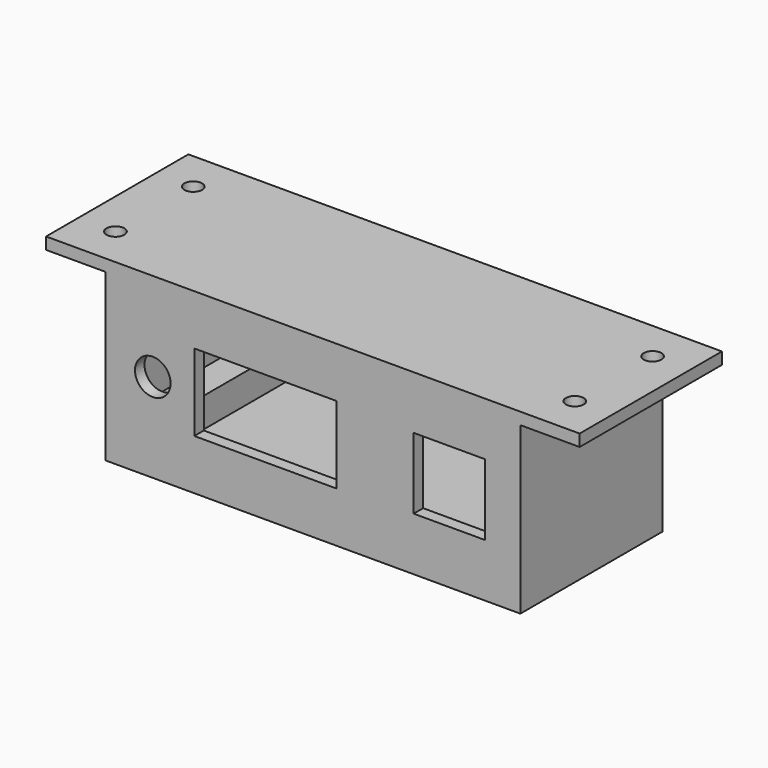
from build123d import *

# Parameters (mm, degrees)
F0_W      = 70
F0_H      = 30
F1_DEPTH  = 30
F2_T      = -2
F3_R      = 3
F3_W      = 12
F3_H      = 12
F3_W_2    = 24
F3_H_2    = 13
F4_DEPTH  = 30.001
F5_W      = 5
F5_H      = 5
F6_DEPTH  = 28
F7_R      = 1.5
F8_DEPTH  = 10
F9_W      = 10
F9_H      = 30
F10_DEPTH = 2
F12_R     = 1.5
F13_DEPTH = 30.001


with BuildPart() as f1:
    # F0 (on Front) → F1 (new body)
    with BuildSketch(Plane.XZ):
        Rectangle(F0_W, F0_H)
    extrude(amount=F1_DEPTH)

    # F2
    f2_openings = [f1.faces().sort_by_distance(p)[0] for p in [
        (0, 0, 0),
    ]]
    offset(amount=F2_T, openings=f2_openings)

    # F3 (on face) → F4 (cut, through all)
    with BuildSketch(Plane.XZ.offset(30)):
        with Locations((-27, 0)):
            Circle(F3_R)
        with Locations((23, 0)):
            Rectangle(F3_W, F3_H)
        with Locations((-8, 0)):
            Rectangle(F3_W_2, F3_H_2)
    extrude(amount=-F4_DEPTH, mode=Mode.SUBTRACT)

    # F5 (on face) → F6 (join, through all)
    with BuildSketch(Plane(origin=(0, 0, 0), x_dir=(-1, 0, 0), z_dir=(0, 1, 0))):
        with Locations((-30.5, 10.5)):
            Rectangle(F5_W, F5_H)
        with Locations((30.5, 10.5)):
            Rectangle(F5_W, F5_H)
        with Locations((30.5, -10.5)):
            Rectangle(F5_W, F5_H)
        with Locations((-30.5, -10.5)):
            Rectangle(F5_W, F5_H)
    extrude(amount=-F6_DEPTH)

    # F7 (on face) → F8 (cut)
    with BuildSketch(Plane(origin=(0, 0, 0), x_dir=(-1, 0, 0), z_dir=(0, 1, 0))):
        with Locations((-31.5, 11.5)):
            Circle(F7_R)
        with Locations((31.5, 11.5)):
            Circle(F7_R)
        with Locations((-31.5, -11.5)):
            Circle(F7_R)
        with Locations((31.5, -11.5)):
            Circle(F7_R)
    extrude(amount=-F8_DEPTH, mode=Mode.SUBTRACT)



with BuildPart() as f10:
    # F9 (on face) → F10 (new body)
    with BuildSketch(Plane.XY.offset(15)):
        with Locations((-40, -15)):
            Rectangle(F9_W, F9_H)
    extrude(amount=-F10_DEPTH)


with BuildPart() as f1_1:
    add(f1.part)

    add(f10.part)  # F11 merges F10
    # F11: F10 across plane
    add(f10.part.mirror(Plane.YZ))

    # F12 (on face) → F13 (cut, through all)
    with BuildSketch(Plane.XY.offset(15)):
        with Locations((-38.7428589165, -6.7958449945)):
            Circle(F12_R)
        with Locations((38.7428589165, -6.7958449945)):
            Circle(F12_R)
        with Locations((-38.7428589165, -23.2041550055)):
            Circle(F12_R)
        with Locations((38.7428589165, -23.2041550055)):
            Circle(F12_R)
    extrude(amount=-F13_DEPTH, mode=Mode.SUBTRACT)


solid = f1_1.part
